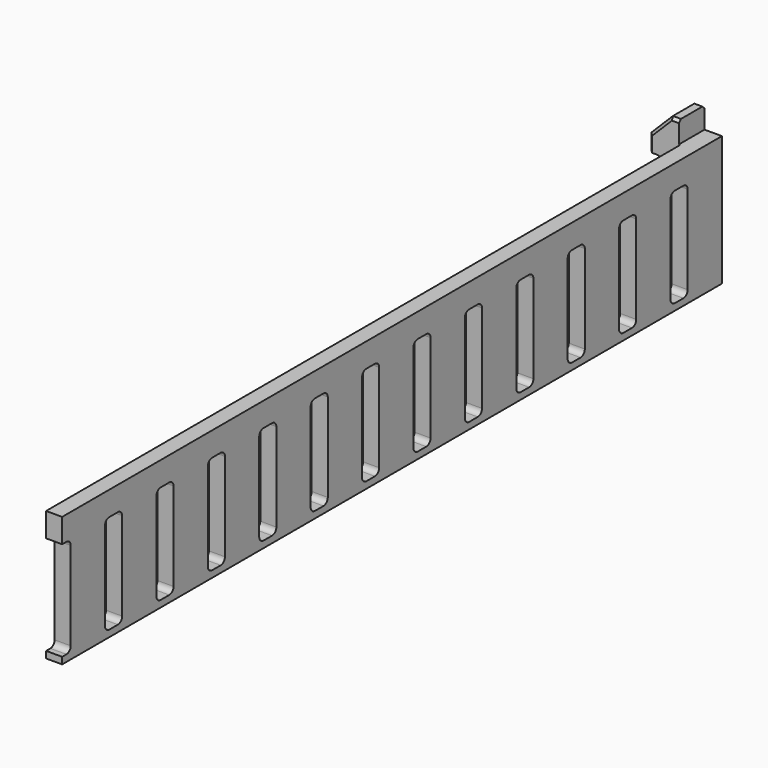
from build123d import *

# Parameters (mm, degrees)
PAD006_DEPTH    = 6
SKETCH014_W     = 3
SKETCH014_H     = 24.25
PAD007_DEPTH    = 148
POCKET007_DEPTH = 3
CHAMFER002_SIZE = 0.5


with BuildPart() as part:
    # Sketch013 (on Face1 of CopyPocket007) → Pad006 (new body)
    with BuildSketch(Plane.XZ.offset(-98)):
        Polygon((-193.75, 37.75), (-197, 37.75), (-197, 41.75), (-198.5, 41.75), (-202.5, 37.75), (-202.5, 34.75), (-201, 34.75), (-197, 33.75), (-196.75, 33.75), (-196.75, 13.5), (-193.75, 13.5), align=None)
    extrude(amount=PAD006_DEPTH)

    # Sketch014 (on Face13 of Pad006) → Pad007 (join)
    with BuildSketch(Plane.XZ.offset(-92)):
        with Locations((-195.25, 25.625)):
            Rectangle(SKETCH014_W, SKETCH014_H)
    extrude(amount=PAD007_DEPTH)

    # Sketch015 (on Face14 of Pad007) → Pocket007 (cut)
    with BuildSketch(Plane(origin=(-196.75, 18, 0), x_dir=(0, -1, 0), z_dir=(-1, 0, 0))):
        with BuildLine():
            Line((-72, 32.25), (-72, 15.75))
            ThreePointArc((-72, 15.75), (-71.7071067812, 15.0428932188), (-71, 14.75))
            Line((-71, 14.75), (-69, 14.75))
            ThreePointArc((-69, 14.75), (-68.2928932188, 15.0428932188), (-68, 15.75))
            Line((-68, 15.75), (-68, 32.25))
            ThreePointArc((-68, 32.25), (-68.2928932188, 32.9571067812), (-69, 33.25))
            Line((-69, 33.25), (-71, 33.25))
            ThreePointArc((-71, 33.25), (-71.7071067812, 32.9571067812), (-72, 32.25))
        make_face()
        with BuildLine():
            Line((-60, 32.2499996536), (-60, 15.7499996536))
            ThreePointArc((-60, 15.7499996536), (-59.7071067812, 15.0428928724), (-59, 14.7499996536))
            Line((-59, 14.7499996536), (-57, 14.7499996536))
            ThreePointArc((-57, 14.7499996536), (-56.2928932188, 15.0428928724), (-56, 15.7499996536))
            Line((-56, 15.7499996536), (-56, 32.2499996536))
            ThreePointArc((-56, 32.2499996536), (-56.2928932188, 32.9571064348), (-57, 33.2499996536))
            Line((-57, 33.2499996536), (-59, 33.2499996536))
            ThreePointArc((-59, 33.2499996536), (-59.7071067812, 32.9571064348), (-60, 32.2499996536))
        make_face()
        with BuildLine():
            Line((-47.9999996732, 32.25), (-47.9999996732, 15.75))
            ThreePointArc((-47.9999996732, 15.75), (-47.7071064544, 15.0428932188), (-46.9999996732, 14.75))
            Line((-46.9999996732, 14.75), (-44.9999996732, 14.75))
            ThreePointArc((-44.9999996732, 14.75), (-44.292892892, 15.0428932188), (-43.9999996732, 15.75))
            Line((-43.9999996732, 15.75), (-43.9999996732, 32.25))
            ThreePointArc((-43.9999996732, 32.25), (-44.292892892, 32.9571067812), (-44.9999996732, 33.25))
            Line((-44.9999996732, 33.25), (-46.9999996732, 33.25))
            ThreePointArc((-46.9999996732, 33.25), (-47.7071064544, 32.9571067812), (-47.9999996732, 32.25))
        make_face()
        with BuildLine():
            Line((-36, 32.25), (-36, 15.75))
            ThreePointArc((-36, 15.75), (-35.7071067812, 15.0428932188), (-35, 14.75))
            Line((-35, 14.75), (-33, 14.75))
            ThreePointArc((-33, 14.75), (-32.2928932188, 15.0428932188), (-32, 15.75))
            Line((-32, 15.75), (-32, 32.25))
            ThreePointArc((-32, 32.25), (-32.2928932188, 32.9571067812), (-33, 33.25))
            Line((-33, 33.25), (-35, 33.25))
            ThreePointArc((-35, 33.25), (-35.7071067812, 32.9571067812), (-36, 32.25))
        make_face()
        with BuildLine():
            Line((-24, 32.25), (-24, 15.75))
            ThreePointArc((-24, 15.75), (-23.7071067812, 15.0428932188), (-23, 14.75))
            Line((-23, 14.75), (-21, 14.75))
            ThreePointArc((-21, 14.75), (-20.2928932188, 15.0428932188), (-20, 15.75))
            Line((-20, 15.75), (-20, 32.25))
            ThreePointArc((-20, 32.25), (-20.2928932188, 32.9571067812), (-21, 33.25))
            Line((-21, 33.25), (-23, 33.25))
            ThreePointArc((-23, 33.25), (-23.7071067812, 32.9571067812), (-24, 32.25))
        make_face()
        with BuildLine():
            Line((-11.9999996732, 32.25), (-11.9999996732, 15.75))
            ThreePointArc((-11.9999996732, 15.75), (-11.7071064544, 15.0428932188), (-10.9999996732, 14.75))
            Line((-10.9999996732, 14.75), (-8.9999996732, 14.75))
            ThreePointArc((-8.9999996732, 14.75), (-8.292892892, 15.0428932188), (-7.9999996732, 15.75))
            Line((-7.9999996732, 15.75), (-7.9999996732, 32.25))
            ThreePointArc((-7.9999996732, 32.25), (-8.292892892, 32.9571067812), (-8.9999996732, 33.25))
            Line((-8.9999996732, 33.25), (-10.9999996732, 33.25))
            ThreePointArc((-10.9999996732, 33.25), (-11.7071064544, 32.9571067812), (-11.9999996732, 32.25))
        make_face()
        with BuildLine():
            Line((0, 32.25), (0, 15.75))
            ThreePointArc((0, 15.75), (0.2928932188, 15.0428932188), (1, 14.75))
            Line((1, 14.75), (3, 14.75))
            ThreePointArc((3, 14.75), (3.7071067812, 15.0428932188), (4, 15.75))
            Line((4, 15.75), (4, 32.25))
            ThreePointArc((4, 32.25), (3.7071067812, 32.9571067812), (3, 33.25))
            Line((3, 33.25), (1, 33.25))
            ThreePointArc((1, 33.25), (0.2928932188, 32.9571067812), (0, 32.25))
        make_face()
        with BuildLine():
            Line((12, 32.25), (12, 15.75))
            ThreePointArc((12, 15.75), (12.2928932188, 15.0428932188), (13, 14.75))
            Line((13, 14.75), (15, 14.75))
            ThreePointArc((15, 14.75), (15.7071067812, 15.0428932188), (16, 15.75))
            Line((16, 15.75), (16, 32.25))
            ThreePointArc((16, 32.25), (15.7071067812, 32.9571067812), (15, 33.25))
            Line((15, 33.25), (13, 33.25))
            ThreePointArc((13, 33.25), (12.2928932188, 32.9571067812), (12, 32.25))
        make_face()
        with BuildLine():
            Line((24.0000003268, 32.25), (24.0000003268, 15.75))
            ThreePointArc((24.0000003268, 15.75), (24.2928935456, 15.0428932188), (25.0000003268, 14.75))
            Line((25.0000003268, 14.75), (27.0000003268, 14.75))
            ThreePointArc((27.0000003268, 14.75), (27.707107108, 15.0428932188), (28.0000003268, 15.75))
            Line((28.0000003268, 15.75), (28.0000003268, 32.25))
            ThreePointArc((28.0000003268, 32.25), (27.707107108, 32.9571067812), (27.0000003268, 33.25))
            Line((27.0000003268, 33.25), (25.0000003268, 33.25))
            ThreePointArc((25.0000003268, 33.25), (24.2928935456, 32.9571067812), (24.0000003268, 32.25))
        make_face()
        with BuildLine():
            Line((36.0000003268, 32.25), (36.0000003268, 15.75))
            ThreePointArc((36.0000003268, 15.75), (36.2928935456, 15.0428932188), (37.0000003268, 14.75))
            Line((37.0000003268, 14.75), (39.0000003268, 14.75))
            ThreePointArc((39.0000003268, 14.75), (39.707107108, 15.0428932188), (40.0000003268, 15.75))
            Line((40.0000003268, 15.75), (40.0000003268, 32.25))
            ThreePointArc((40.0000003268, 32.25), (39.707107108, 32.9571067812), (39.0000003268, 33.25))
            Line((39.0000003268, 33.25), (37.0000003268, 33.25))
            ThreePointArc((37.0000003268, 33.25), (36.2928935456, 32.9571067812), (36.0000003268, 32.25))
        make_face()
        with BuildLine():
            Line((48, 32.25), (48, 15.75))
            ThreePointArc((48, 15.75), (48.2928932188, 15.0428932188), (49, 14.75))
            Line((49, 14.75), (51, 14.75))
            ThreePointArc((51, 14.75), (51.7071067812, 15.0428932188), (52, 15.75))
            Line((52, 15.75), (52, 32.25))
            ThreePointArc((52, 32.25), (51.7071067812, 32.9571067812), (51, 33.25))
            Line((51, 33.25), (49, 33.25))
            ThreePointArc((49, 33.25), (48.2928932188, 32.9571067812), (48, 32.25))
        make_face()
        with BuildLine():
            Line((60.0000003268, 32.25), (60.0000003268, 15.75))
            ThreePointArc((60.0000003268, 15.75), (60.2928935456, 15.0428932188), (61.0000003268, 14.75))
            Line((61.0000003268, 14.75), (63.0000003268, 14.75))
            ThreePointArc((63.0000003268, 14.75), (63.707107108, 15.0428932188), (64.0000003268, 15.75))
            Line((64.0000003268, 15.75), (64.0000003268, 32.25))
            ThreePointArc((64.0000003268, 32.25), (63.707107108, 32.9571067812), (63.0000003268, 33.25))
            Line((63.0000003268, 33.25), (61.0000003268, 33.25))
            ThreePointArc((61.0000003268, 33.25), (60.2928935456, 32.9571067812), (60.0000003268, 32.25))
        make_face()
        with BuildLine():
            Line((72, 32.2499996536), (72, 15.7499996536))
            ThreePointArc((72, 15.7499996536), (72.2928932188, 15.0428928724), (73, 14.7499996536))
            Line((73, 14.7499996536), (75, 14.7499996536))
            ThreePointArc((75, 14.7499996536), (75.7071067812, 15.0428928724), (76, 15.7499996536))
            Line((76, 15.7499996536), (76, 32.2499996536))
            ThreePointArc((76, 32.2499996536), (75.7071067812, 32.9571064348), (75, 33.2499996536))
            Line((75, 33.2499996536), (73, 33.2499996536))
            ThreePointArc((73, 33.2499996536), (72.2928932188, 32.9571064348), (72, 32.2499996536))
        make_face()
    extrude(amount=-POCKET007_DEPTH, mode=Mode.SUBTRACT)

    # Chamfer002
    chamfer002_edges = [part.edges().sort_by_distance(p)[0] for p in [
        (-197.75, 92, 41.75),
        (-200.5, 92, 39.75),
        (-202.5, 92, 36.25),
        (-202.5, 98, 36.25),
        (-200.5, 98, 39.75),
        (-197.75, 98, 41.75),
    ]]
    chamfer(chamfer002_edges, length=CHAMFER002_SIZE)


with BuildPart() as part_1:
    # Body005 placement: moved
    add(part.part.moved(Location((0, 216, 0))))


solid = part_1.part
